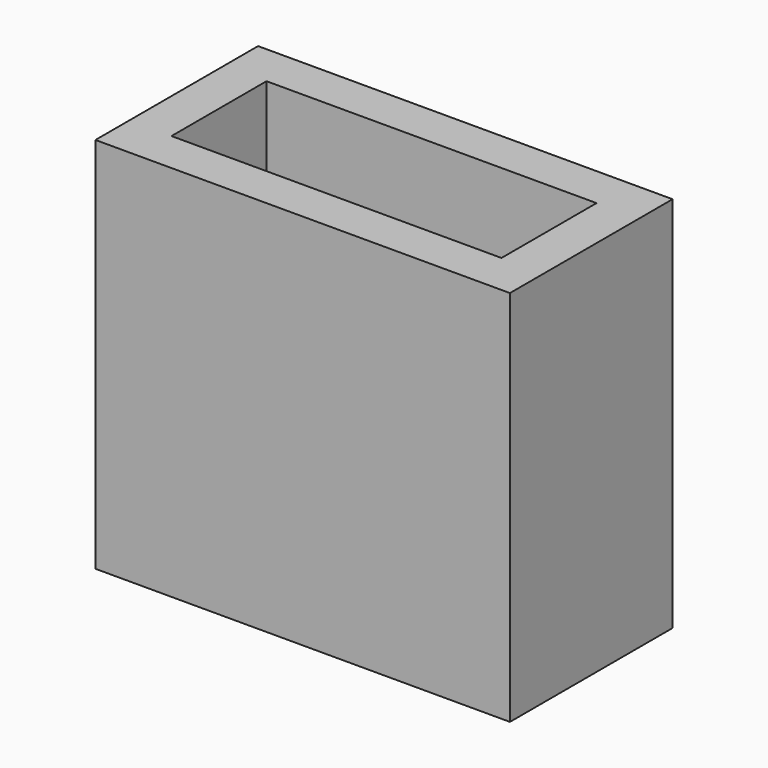
from build123d import *

# Parameters (mm, degrees)
F0_W     = 15.7
F0_H     = 7.7
F0_W_2   = 12.5
F0_H_2   = 4.5
F1_DEPTH = 1.5
F2_DEPTH = 14.3
F3_W     = 2.2
F3_H     = 1.25
F4_DEPTH = 0.2


with BuildPart() as f1:
    # F0 (on Top) → F1 (new body)
    with BuildSketch(Plane.XY):
        Rectangle(F0_W, F0_H)
        Rectangle(F0_W_2, F0_H_2, mode=Mode.SUBTRACT)
        Rectangle(F0_W_2, F0_H_2)
    extrude(amount=F1_DEPTH)

    # F0 (on Top) → F2 (join)
    with BuildSketch(Plane.XY):
        Rectangle(F0_W, F0_H)
        Rectangle(F0_W_2, F0_H_2, mode=Mode.SUBTRACT)
    extrude(amount=F2_DEPTH)

    # F3 (on face) → F4 (join)
    with BuildSketch(Plane.XZ.offset(-2.25)):
        with Locations((3.65, 8.175)):
            Rectangle(F3_W, F3_H)
        with Locations((-3.65, 8.175)):
            Rectangle(F3_W, F3_H)
    extrude(amount=F4_DEPTH)


solid = f1.part
